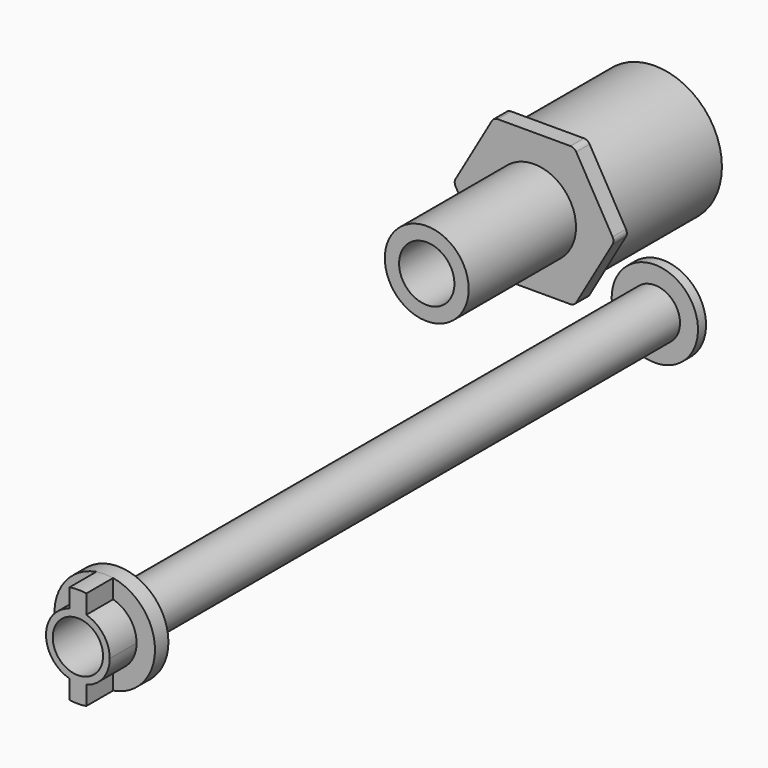
from build123d import *

# Parameters (mm, degrees)
F0_R      = 7.5
F0_R_2    = 5
F1_DEPTH  = 200
F2_R      = 14.987167
F2_R_2    = 7.5
F3_DEPTH  = 5
F4_R      = 7.5
F5_DEPTH  = 10
F6_R      = 20
F6_R_2    = 17.5
F7_DEPTH  = 40
F8_R      = 8.250091
F9_DEPTH  = 5
F10_R     = 12.5
F10_R_2   = 8.250091
F11_DEPTH = 40
F12_R     = 12.872863
F12_R_2   = 7.5
F13_DEPTH = 3


with BuildPart() as f1:
    # F0 (on Front) → F1 (new body)
    with BuildSketch(Plane.XZ):
        Circle(F0_R)
        Circle(F0_R_2, mode=Mode.SUBTRACT)
    extrude(amount=F1_DEPTH)


with BuildPart() as f3:
    # F2 (on face) → F3 (new body)
    with BuildSketch(Plane.XZ.offset(200)):
        Circle(F2_R)
        Circle(F2_R_2, mode=Mode.SUBTRACT)
    extrude(amount=F3_DEPTH)

    # F4 (on face) → F5 (join)
    with BuildSketch(Plane.XZ.offset(205)):
        with BuildLine():
            Line((2.5, 9.165151), (2.5, 14.777184))
            ThreePointArc((2.5, 14.777184), (0, 14.987167), (-2.5, 14.777184))
            Line((-2.5, 14.777184), (-2.5, 9.165151))
            ThreePointArc((-2.5, 9.165151), (0, 9.5), (2.5, 9.165151))
        make_face()
        with BuildLine():
            ThreePointArc((-2.5, -14.777184), (0, -14.987167), (2.5, -14.777184))
            Line((2.5, -14.777184), (2.5, -9.165151))
            ThreePointArc((2.5, -9.165151), (0, -9.5), (-2.5, -9.165151))
            Line((-2.5, -9.165151), (-2.5, -14.777184))
        make_face()
        with BuildLine():
            ThreePointArc((9.5, 0), (7.549834, 5.766281), (2.5, 9.165151))
            ThreePointArc((2.5, 9.165151), (0, 9.5), (-2.5, 9.165151))
            ThreePointArc((-2.5, 9.165151), (-9.5, 0), (-2.5, -9.165151))
            ThreePointArc((-2.5, -9.165151), (0, -9.5), (2.5, -9.165151))
            ThreePointArc((2.5, -9.165151), (7.549834, -5.766281), (9.5, 0))
        make_face()
        Circle(F4_R, mode=Mode.SUBTRACT)
    extrude(amount=F5_DEPTH)


with BuildPart() as f7:
    # F6 (on Front) → F7 (new body)
    with BuildSketch(Plane.XZ):
        with Locations((0, 45.065034)):
            Circle(F6_R)
        with Locations((0, 45.065034)):
            Circle(F6_R_2, mode=Mode.SUBTRACT)
    extrude(amount=F7_DEPTH)

    # F8 (on face) → F9 (join)
    with BuildSketch(Plane.XZ.offset(40)):
        with BuildLine():
            Line((10.829489, 65.822259), (-10.829489, 65.822259))
            ThreePointArc((-10.829489, 65.822259), (-11.829489, 65.554309), (-12.561539, 64.822259))
            Line((-12.561539, 64.822259), (-23.391028, 46.065034))
            ThreePointArc((-23.391028, 46.065034), (-23.658977, 45.065034), (-23.391028, 44.065034))
            Line((-23.391028, 44.065034), (-12.561539, 25.30781))
            ThreePointArc((-12.561539, 25.30781), (-11.829489, 24.575759), (-10.829489, 24.30781))
            Line((-10.829489, 24.30781), (10.829489, 24.30781))
            ThreePointArc((10.829489, 24.30781), (11.829489, 24.575759), (12.561539, 25.30781))
            Line((12.561539, 25.30781), (23.391028, 44.065034))
            ThreePointArc((23.391028, 44.065034), (23.658977, 45.065034), (23.391028, 46.065034))
            Line((23.391028, 46.065034), (12.561539, 64.822259))
            ThreePointArc((12.561539, 64.822259), (11.829489, 65.554309), (10.829489, 65.822259))
        make_face()
        with Locations((0, 45.065034)):
            Circle(F8_R, mode=Mode.SUBTRACT)
    extrude(amount=F9_DEPTH)

    # F10 (on face) → F11 (join)
    with BuildSketch(Plane.XZ.offset(45)):
        with Locations((0, 45.065034)):
            Circle(F10_R)
        with Locations((0, 45.065034)):
            Circle(F10_R_2, mode=Mode.SUBTRACT)
    extrude(amount=F11_DEPTH)


with BuildPart() as f13:
    # F12 (on face) → F13 (new body)
    with BuildSketch(Plane(origin=(0, 0, 0), x_dir=(-1, 0, 0), z_dir=(0, 1, 0))):
        Circle(F12_R)
        Circle(F12_R_2, mode=Mode.SUBTRACT)
    extrude(amount=F13_DEPTH)


solid = Compound([f1.part, f3.part, f7.part, f13.part])
